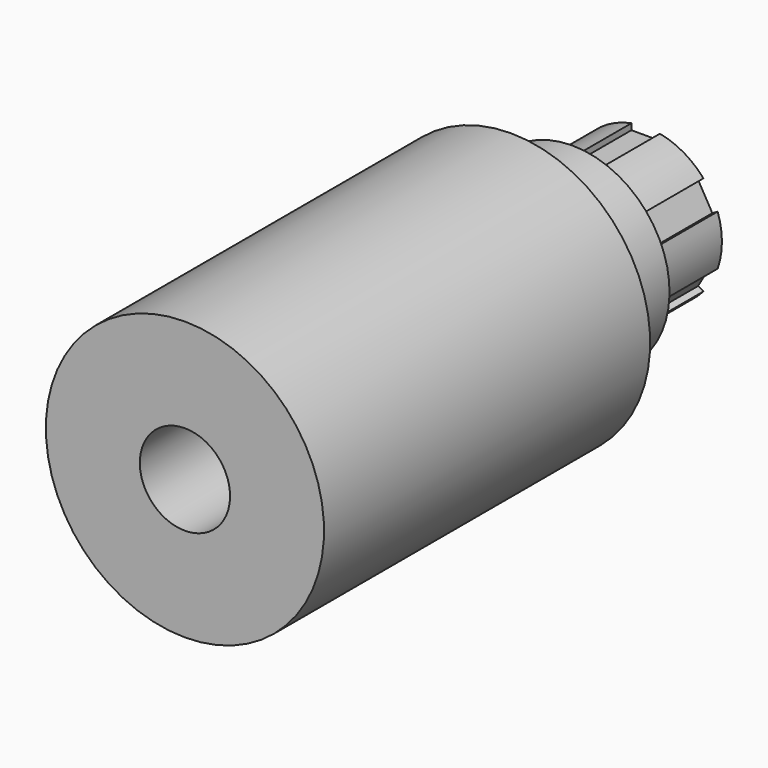
from build123d import *

# Parameters (mm, degrees)
F3_DEPTH = 17.1


with BuildPart() as f1:
    # F0 (on Right) → F1 (revolve)
    with BuildSketch(Plane.YZ):
        Polygon((17.869576, 26.562618), (-59.984905, 26.562618), (-59.984905, 8.62), (50, 8.62), (50, 14.562618), (32.493035, 14.562618), (32.493035, 18.562618), (17.869576, 18.562618), align=None)
    revolve(axis=Axis((0, 1.113363, 0), (0, 1, 0)))


with BuildPart() as f3:
    # F2 (on face) → F3 (new body)
    with BuildSketch(Plane(origin=(0, 50, 0), x_dir=(-1, 0, 0), z_dir=(0, 1, 0))):
        with BuildLine():
            Line((-2.716261, 14.562618), (-2.716261, 14.307053))
            ThreePointArc((-2.716261, 14.307053), (-1.364129, 14.498586), (0, 14.562618))
            Line((0, 14.562618), (-2.716261, 14.562618))
        make_face()
        with BuildLine():
            Line((2.716261, 14.562618), (0, 14.562618))
            ThreePointArc((0, 14.562618), (1.364129, 14.498586), (2.716261, 14.307053))
            Line((2.716261, 14.307053), (2.716261, 14.562618))
        make_face()
        with BuildLine():
            ThreePointArc((-12.611597, 7.281309), (-11.87408, 8.430663), (-11.032141, 9.505878))
            Line((-11.032141, 9.505878), (-11.253467, 9.63366))
            Line((-11.253467, 9.63366), (-12.611597, 7.281309))
        make_face()
        with BuildLine():
            ThreePointArc((-13.748402, 4.801175), (-13.238208, 6.067923), (-12.611597, 7.281309))
            Line((-12.611597, 7.281309), (-13.969728, 4.928958))
            Line((-13.969728, 4.928958), (-13.748402, 4.801175))
        make_face()
        with BuildLine():
            ThreePointArc((-12.611597, -7.281309), (-13.238208, -6.067923), (-13.748402, -4.801175))
            Line((-13.748402, -4.801175), (-13.969728, -4.928958))
            Line((-13.969728, -4.928958), (-12.611597, -7.281309))
        make_face()
        with BuildLine():
            ThreePointArc((-11.032141, -9.505878), (-11.87408, -8.430663), (-12.611597, -7.281309))
            Line((-12.611597, -7.281309), (-11.253467, -9.63366))
            Line((-11.253467, -9.63366), (-11.032141, -9.505878))
        make_face()
        with BuildLine():
            ThreePointArc((0, -14.562618), (-1.364129, -14.498586), (-2.716261, -14.307053))
            Line((-2.716261, -14.307053), (-2.716261, -14.562618))
            Line((-2.716261, -14.562618), (0, -14.562618))
        make_face()
        with BuildLine():
            ThreePointArc((2.716261, -14.307053), (1.364129, -14.498586), (0, -14.562618))
            Line((0, -14.562618), (2.716261, -14.562618))
            Line((2.716261, -14.562618), (2.716261, -14.307053))
        make_face()
        with BuildLine():
            Line((11.253467, -9.63366), (12.611597, -7.281309))
            ThreePointArc((12.611597, -7.281309), (11.87408, -8.430663), (11.032141, -9.505878))
            Line((11.032141, -9.505878), (11.253467, -9.63366))
        make_face()
        with BuildLine():
            Line((13.969728, -4.928958), (13.748402, -4.801175))
            ThreePointArc((13.748402, -4.801175), (13.238208, -6.067923), (12.611597, -7.281309))
            Line((12.611597, -7.281309), (13.969728, -4.928958))
        make_face()
        with BuildLine():
            Line((13.969728, 4.928958), (12.611597, 7.281309))
            ThreePointArc((12.611597, 7.281309), (13.238208, 6.067923), (13.748402, 4.801175))
            Line((13.748402, 4.801175), (13.969728, 4.928958))
        make_face()
        with BuildLine():
            Line((11.253467, 9.63366), (11.032141, 9.505878))
            ThreePointArc((11.032141, 9.505878), (11.87408, 8.430663), (12.611597, 7.281309))
            Line((12.611597, 7.281309), (11.253467, 9.63366))
        make_face()
        with BuildLine():
            Line((-2.716261, 14.307053), (-2.716261, 13.132972))
            Line((-2.716261, 13.132972), (2.716261, 13.132972))
            Line((2.716261, 13.132972), (2.716261, 14.307053))
            ThreePointArc((2.716261, 14.307053), (1.364129, 14.498586), (0, 14.562618))
            ThreePointArc((0, 14.562618), (-1.364129, 14.498586), (-2.716261, 14.307053))
        make_face()
        with BuildLine():
            Line((-12.731618, -4.214135), (-13.748402, -4.801175))
            ThreePointArc((-13.748402, -4.801175), (-13.238208, -6.067923), (-12.611597, -7.281309))
            ThreePointArc((-12.611597, -7.281309), (-11.87408, -8.430663), (-11.032141, -9.505878))
            Line((-11.032141, -9.505878), (-10.015357, -8.918837))
            Line((-10.015357, -8.918837), (-12.731618, -4.214135))
        make_face()
        with BuildLine():
            Line((-2.716261, -13.132972), (-2.716261, -14.307053))
            ThreePointArc((-2.716261, -14.307053), (-1.364129, -14.498586), (0, -14.562618))
            ThreePointArc((0, -14.562618), (1.364129, -14.498586), (2.716261, -14.307053))
            Line((2.716261, -14.307053), (2.716261, -13.132972))
            Line((2.716261, -13.132972), (-2.716261, -13.132972))
        make_face()
        with BuildLine():
            ThreePointArc((12.611597, -7.281309), (13.238208, -6.067923), (13.748402, -4.801175))
            Line((13.748402, -4.801175), (12.731618, -4.214135))
            Line((12.731618, -4.214135), (10.015357, -8.918837))
            Line((10.015357, -8.918837), (11.032141, -9.505878))
            ThreePointArc((11.032141, -9.505878), (11.87408, -8.430663), (12.611597, -7.281309))
        make_face()
        with BuildLine():
            ThreePointArc((12.611597, 7.281309), (11.87408, 8.430663), (11.032141, 9.505878))
            Line((11.032141, 9.505878), (10.015357, 8.918837))
            Line((10.015357, 8.918837), (12.731618, 4.214135))
            Line((12.731618, 4.214135), (13.748402, 4.801175))
            ThreePointArc((13.748402, 4.801175), (13.238208, 6.067923), (12.611597, 7.281309))
        make_face()
        with BuildLine():
            Line((-10.015357, 8.918837), (-11.032141, 9.505878))
            ThreePointArc((-11.032141, 9.505878), (-11.87408, 8.430663), (-12.611597, 7.281309))
            ThreePointArc((-12.611597, 7.281309), (-13.238208, 6.067923), (-13.748402, 4.801175))
            Line((-13.748402, 4.801175), (-12.731618, 4.214135))
            Line((-12.731618, 4.214135), (-10.015357, 8.918837))
        make_face()
    extrude(amount=-F3_DEPTH)


with BuildPart() as f1_1:
    add(f1.part)

    # F4: cut F3
    add(f3.part, mode=Mode.SUBTRACT)


solid = f1_1.part
